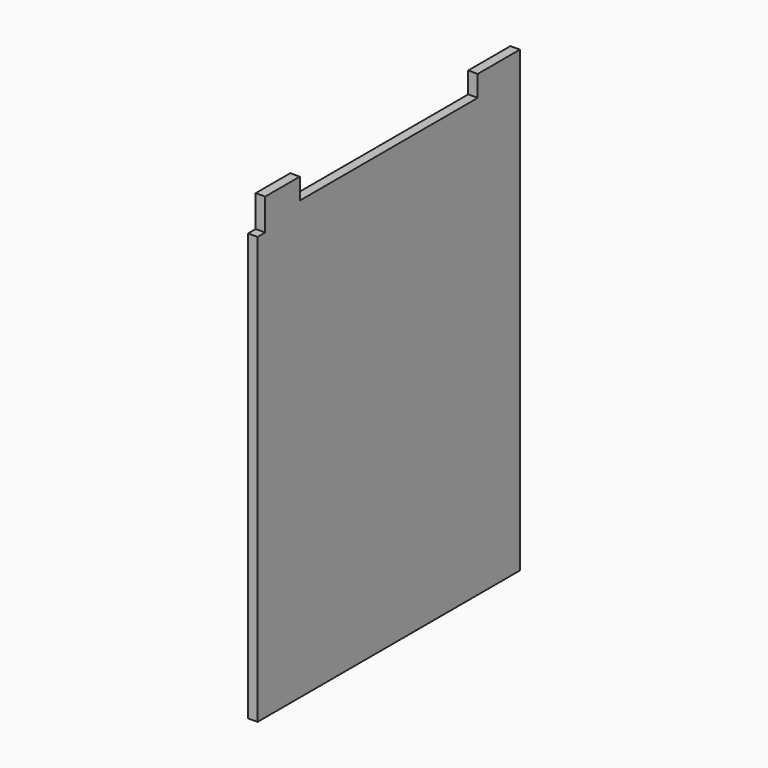
from build123d import *

# Parameters (mm, degrees)
F0_W     = 622
F0_H     = 870
F1_DEPTH = 18
F2_W     = 18
F2_H     = 60
F2_W_2   = 422
F2_H_2   = 40
F3_DEPTH = 18


with BuildPart() as f1:
    # F0 (on Right) → F1 (new body)
    with BuildSketch(Plane.YZ):
        Rectangle(F0_W, F0_H)
    extrude(amount=F1_DEPTH)

    # F2 (on face) → F3 (cut)
    with BuildSketch(Plane.YZ.offset(18)):
        with Locations((-302, 405)):
            Rectangle(F2_W, F2_H)
        with Locations((0, 415)):
            Rectangle(F2_W_2, F2_H_2)
    extrude(amount=-F3_DEPTH, mode=Mode.SUBTRACT)


solid = f1.part
